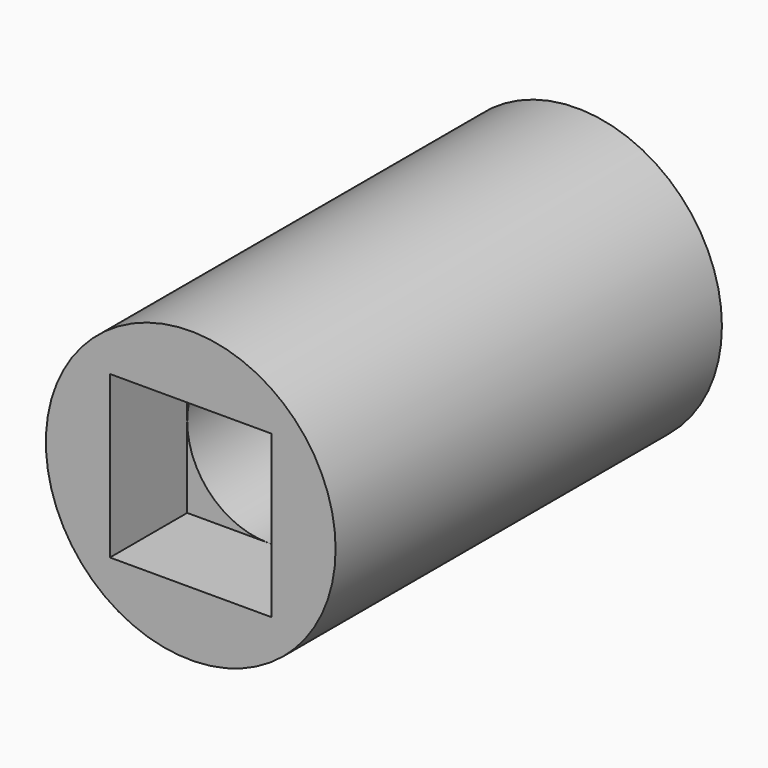
from build123d import *

# Parameters (mm, degrees)
F0_R     = 38.1
F3_DEPTH = 127
F2_R     = 21.245809
F4_DEPTH = 127.001
F1_W     = 42.491618
F1_H     = 42.491618
F5_DEPTH = 25.4


with BuildPart() as f3:
    # F0 (on Front) → F3 (new body)
    with BuildSketch(Plane.XZ):
        Circle(F0_R)
    extrude(amount=-F3_DEPTH)

    # F2 (on Front) → F4 (cut, through all)
    with BuildSketch(Plane.XZ):
        Circle(F2_R)
    extrude(amount=-F4_DEPTH, mode=Mode.SUBTRACT)

    # F1 (on Front) → F5 (cut)
    with BuildSketch(Plane.XZ):
        Rectangle(F1_W, F1_H)
    extrude(amount=-F5_DEPTH, mode=Mode.SUBTRACT)


solid = f3.part
